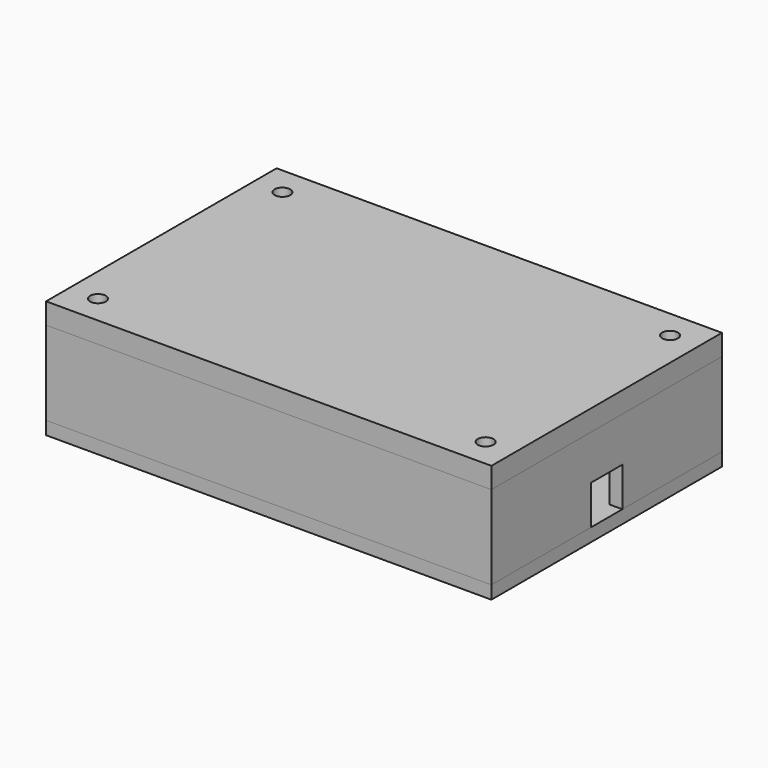
from build123d import *

# Parameters (mm, degrees)
SKETCH_W                = 170
SKETCH_H                = 110
PAD_DEPTH               = 5
SKETCH001_W             = 12
SKETCH001_H             = 12
PAD001_DEPTH            = 20
SKETCH002_R             = 3
POCKET_DEPTH            = 10
SKETCH003_W             = 18
SKETCH003_H             = 17
PAD002_DEPTH            = 28
SKETCH004_R             = 2.5
POCKET001_DEPTH         = 10
SKETCH005_W             = 82
SKETCH005_H             = 52
PAD003_DEPTH            = 5
SKETCH006_W             = 74
SKETCH006_H             = 44
POCKET002_DEPTH         = 5
SKETCH007_W             = 170
SKETCH007_H             = 110
SKETCH007_W_2           = 160
SKETCH007_H_2           = 100
PAD004_DEPTH            = 32
SKETCH008_W             = 15
SKETCH008_H             = 15
POCKET003_DEPTH         = 170.001
SKETCH009_W             = 170
SKETCH009_H             = 110
PAD005_DEPTH            = 3
SKETCH010_W             = 12
SKETCH010_H             = 12
PAD006_DEPTH            = 16
SKETCH011_R             = 3
POCKET004_DEPTH         = 19.001
SKETCH012_W             = 170
SKETCH012_H             = 110
SKETCH012_W_2           = 160
SKETCH012_H_2           = 100
PAD007_DEPTH            = 8
BODY002_PLACEMENT_ANGLE = 180


with BuildPart() as bottommountingplatebody:
    # Sketch → Pad (new body)
    with BuildSketch(Plane.XY):
        Rectangle(SKETCH_W, SKETCH_H)
    extrude(amount=PAD_DEPTH)

    # Sketch001 (on Face6 of Pad) → Pad001 (join)
    with BuildSketch(Plane.XY.offset(5)):
        with Locations((-74, 44)):
            Rectangle(SKETCH001_W, SKETCH001_H)
        with Locations((-74, -44)):
            Rectangle(SKETCH001_W, SKETCH001_H)
        with Locations((74, 44)):
            Rectangle(SKETCH001_W, SKETCH001_H)
        with Locations((74, -44)):
            Rectangle(SKETCH001_W, SKETCH001_H)
    extrude(amount=PAD001_DEPTH)

    # Sketch002 (on Face26 of Pad001) → Pocket (cut)
    with BuildSketch(Plane.XY.offset(25)):
        with Locations((-74, 44)):
            Circle(SKETCH002_R)
        with Locations((74, 44)):
            Circle(SKETCH002_R)
        with Locations((-74, -44)):
            Circle(SKETCH002_R)
        with Locations((74, -44)):
            Circle(SKETCH002_R)
    extrude(amount=-POCKET_DEPTH, mode=Mode.SUBTRACT)

    # Sketch003 (on Face5 of Pocket) → Pad002 (join)
    with BuildSketch(Plane.XY.offset(5)):
        with Locations((49, 36.5)):
            Rectangle(SKETCH003_W, SKETCH003_H)
    extrude(amount=PAD002_DEPTH)

    # Sketch004 (on Face29 of Pad002) → Pocket001 (cut)
    with BuildSketch(Plane.XY.offset(33)):
        with Locations((49, 36.5)):
            Circle(SKETCH004_R)
    extrude(amount=-POCKET001_DEPTH, mode=Mode.SUBTRACT)

    # Sketch005 (on Face5 of Pocket001) → Pad003 (join)
    with BuildSketch(Plane.XY.offset(5)):
        with Locations((17, -8)):
            Rectangle(SKETCH005_W, SKETCH005_H)
    extrude(amount=PAD003_DEPTH)

    # Sketch006 (on Face32 of Pad003) → Pocket002 (cut)
    with BuildSketch(Plane.XY.offset(10)):
        with Locations((17, -8)):
            Rectangle(SKETCH006_W, SKETCH006_H)
    extrude(amount=-POCKET002_DEPTH, mode=Mode.SUBTRACT)


with BuildPart() as sidepanels:
    # Sketch007 → Pad004 (new body)
    with BuildSketch(Plane.XY):
        Rectangle(SKETCH007_W, SKETCH007_H)
        Rectangle(SKETCH007_W_2, SKETCH007_H_2, mode=Mode.SUBTRACT)
    extrude(amount=PAD004_DEPTH)

    # Sketch008 (on Face2 of Pad004) → Pocket003 (cut, through all)
    with BuildSketch(Plane.YZ.offset(85)):
        with Locations((0, 7.5)):
            Rectangle(SKETCH008_W, SKETCH008_H)
    extrude(amount=-POCKET003_DEPTH, mode=Mode.SUBTRACT)


with BuildPart() as sidepanels_1:
    # Body001 placement: moved
    add(sidepanels.part.moved(Location((0, 0, 5))))


with BuildPart() as topcover:
    # Sketch009 → Pad005 (new body)
    with BuildSketch(Plane.XY):
        Rectangle(SKETCH009_W, SKETCH009_H)
    extrude(amount=PAD005_DEPTH)

    # Sketch010 (on Face6 of Pad005) → Pad006 (join)
    with BuildSketch(Plane.XY.offset(3)):
        with Locations((-74, 44)):
            Rectangle(SKETCH010_W, SKETCH010_H)
        with Locations((-74, -44)):
            Rectangle(SKETCH010_W, SKETCH010_H)
        with Locations((74, 44)):
            Rectangle(SKETCH010_W, SKETCH010_H)
        with Locations((74, -44)):
            Rectangle(SKETCH010_W, SKETCH010_H)
    extrude(amount=PAD006_DEPTH)

    # Sketch011 (on Face26 of Pad006) → Pocket004 (cut, through all)
    with BuildSketch(Plane.XY.offset(19)):
        with Locations((-74, 44)):
            Circle(SKETCH011_R)
        with Locations((74, 44)):
            Circle(SKETCH011_R)
        with Locations((-74, -44)):
            Circle(SKETCH011_R)
        with Locations((74, -44)):
            Circle(SKETCH011_R)
    extrude(amount=-POCKET004_DEPTH, mode=Mode.SUBTRACT)

    # Sketch012 → Pad007 (join)
    with BuildSketch(Plane.XY):
        Rectangle(SKETCH012_W, SKETCH012_H)
        Rectangle(SKETCH012_W_2, SKETCH012_H_2, mode=Mode.SUBTRACT)
    extrude(amount=PAD007_DEPTH)


with BuildPart() as topcover_1:
    # Body002 placement: moved
    add(topcover.part.moved(Location((0, 0, 45))).rotate(Axis((0, 0, 45), (1, 0, 0)), BODY002_PLACEMENT_ANGLE))


solid = Compound([bottommountingplatebody.part, sidepanels_1.part, topcover_1.part])
